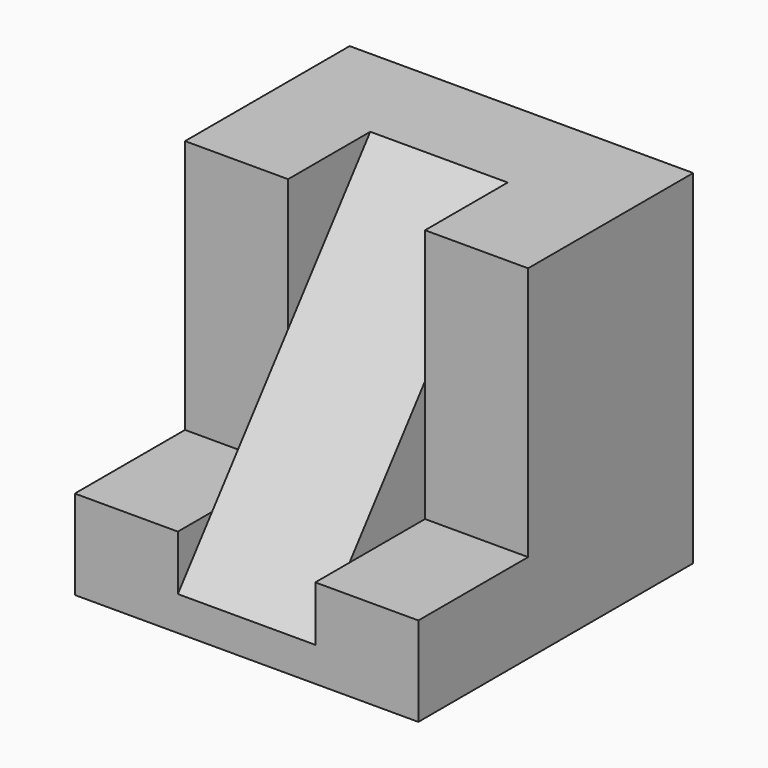
from build123d import *

# Parameters (mm, degrees)
F0_W      = 127
F0_H      = 127
F1_DEPTH  = 127
F4_DEPTH  = 88.9
F5_W      = 38.1
F5_H      = 88.9
F6_DEPTH  = 127
F7_W      = 38.1
F7_H      = 50.712608
F7_H_2    = 50.8
F8_DEPTH  = 93.98
F9_W      = 38.1
F9_H      = 93.98
F10_DEPTH = 12.7


with BuildPart() as f1:
    # F0 (on Top) → F1 (new body)
    with BuildSketch(Plane.XY):
        Rectangle(F0_W, F0_H)
    extrude(amount=F1_DEPTH)

    # F3 (on face) → F4 (cut)
    with BuildSketch(Plane.YZ.offset(63.5)):
        Polygon((-63.5, 127), (-63.5, 12.7), (25.4, 127), align=None)
    extrude(amount=-F4_DEPTH, mode=Mode.SUBTRACT)

    # F5 (on face) → F6 (join)
    with BuildSketch(Plane.XY.offset(127)):
        with Locations((44.45, -19.05)):
            Rectangle(F5_W, F5_H)
    extrude(amount=-F6_DEPTH)

    # F7 (on face) → F8 (cut)
    with BuildSketch(Plane.XY.offset(127)):
        with Locations((44.45, -38.143696)):
            Rectangle(F7_W, F7_H)
        with Locations((-44.45, -37.963312)):
            Rectangle(F7_W, F7_H_2)
    extrude(amount=-F8_DEPTH, mode=Mode.SUBTRACT)

    # F9 (on face) → F10 (cut)
    with BuildSketch(Plane.XZ.offset(63.5)):
        with Locations((-44.45, 80.01)):
            Rectangle(F9_W, F9_H)
    extrude(amount=-F10_DEPTH, mode=Mode.SUBTRACT)


solid = f1.part
